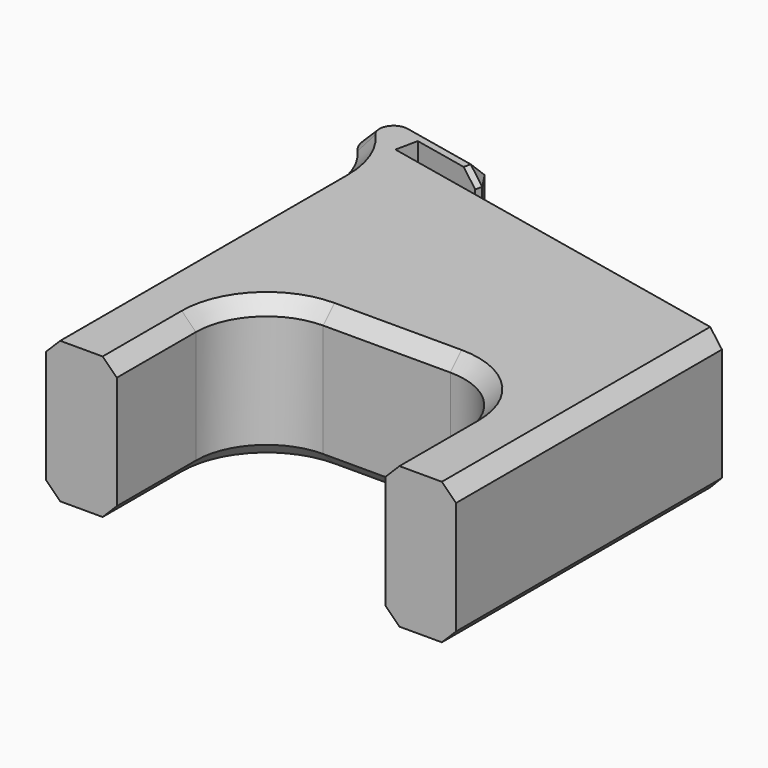
from build123d import *

# Parameters (mm, degrees)
PAD_DEPTH            = 10
CHAMFER_SIZE         = 1
BODY_PLACEMENT_ANGLE = 270


with BuildPart() as part:
    # Sketch (on XZ_Plane of Origin) → Pad (new body)
    with BuildSketch(Plane.XZ):
        with BuildLine():
            Line((-1.5, 0), (-1.5, 25.451662))
            ThreePointArc((-1.5, 25.451662), (-1.901799, 27.610399), (-3.053383, 29.480011))
            ThreePointArc((-1.155354, 32.779089), (-3.304749, 31.820154), (-3.053383, 29.480011))
            Line((-1.155354, 32.779089), (5.202606, 31.427663))
            Line((5.202606, 31.427663), (4.890738, 29.960442))
            Line((4.890738, 29.960442), (0, 31))
            Line((0, 31), (-0.332659, 29.434964))
            Line((-0.332659, 29.434964), (27.5, 23.51895))
            Line((27.5, 23.51895), (27.5, 0))
            Line((27.5, 0), (22.5, 0))
            Line((22.5, 0), (22.5, 7))
            ThreePointArc((22.5, 7), (21.035534, 10.535534), (17.5, 12))
            Line((17.5, 12), (8.5, 12))
            ThreePointArc((8.5, 12), (4.964466, 10.535534), (3.5, 7))
            Line((3.5, 7), (3.5, 0))
            Line((3.5, 0), (-1.5, 0))
        make_face()
    extrude(amount=PAD_DEPTH)

    # Chamfer
    chamfer_edges = [part.edges().sort_by_distance(p)[0] for p in [
        (-1.5, -10, 12.725831),
        (3.5, -10, 3.5),
        (27.5, -10, 11.759475),
        (27.5, 0, 11.759475),
        (-1.5, 0, 12.725831),
        (22.5, 0, 3.5),
        (5.202606, -5, 31.427663),
        (5.046672, 0, 30.694052),
        (5.046672, -10, 30.694052),
    ]]
    chamfer(chamfer_edges, length=CHAMFER_SIZE)


with BuildPart() as part_1:
    # Body placement: moved
    add(part.part.rotate(Axis((0, 0, 0), (1, 0, 0)), BODY_PLACEMENT_ANGLE))


solid = part_1.part
